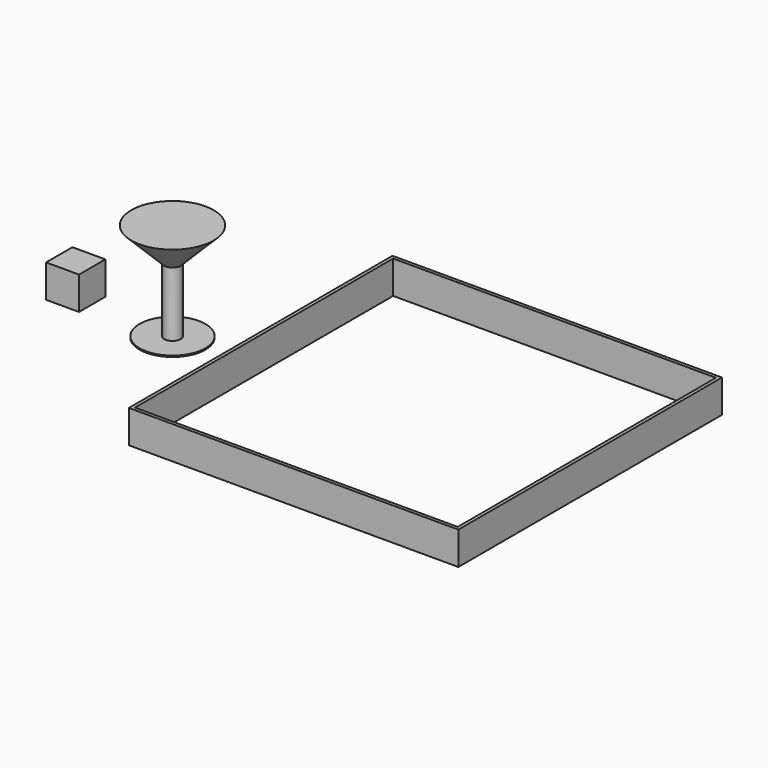
from build123d import *

# Parameters (mm, degrees)
F0_R      = 10
F0_R_2    = 2.5
F1_DEPTH  = 0.4
F2_DEPTH  = 20
F2_FACE_R = 2.5
F3_DEPTH  = 10
F3_TAPER  = -45
F4_W      = 10
F4_H      = 10
F5_DEPTH  = 10
F6_W      = 100
F6_H      = 100
F6_W_2    = 98
F6_H_2    = 98
F7_DEPTH  = 10


with BuildPart() as f1:
    # F0 (on Top) → F1 (new body)
    with BuildSketch(Plane.XY):
        Circle(F0_R)
        Circle(F0_R_2, mode=Mode.SUBTRACT)
    extrude(amount=F1_DEPTH)

    # F0 (on Top) → F2 (join)
    with BuildSketch(Plane.XY):
        Circle(F0_R_2)
    extrude(amount=F2_DEPTH)

    # F2_face (on face) → F3 (join)
    with BuildSketch(Plane.XY.offset(20)):
        Circle(F2_FACE_R)
    extrude(amount=F3_DEPTH, taper=F3_TAPER)


with BuildPart() as f5:
    # F4 (on Top) → F5 (new body)
    with BuildSketch(Plane.XY):
        with Locations((-30.5029201508, 1.415411355)):
            Rectangle(F4_W, F4_H)
    extrude(amount=F5_DEPTH)


with BuildPart() as f7:
    # F6 (on Top) → F7 (new body)
    with BuildSketch(Plane.XY):
        with Locations((76.4819394797, 0.3597892821)):
            Rectangle(F6_W, F6_H)
        with Locations((76.4819394797, 0.3597892821)):
            Rectangle(F6_W_2, F6_H_2, mode=Mode.SUBTRACT)
    extrude(amount=F7_DEPTH)


solid = Compound([f1.part, f5.part, f7.part])
